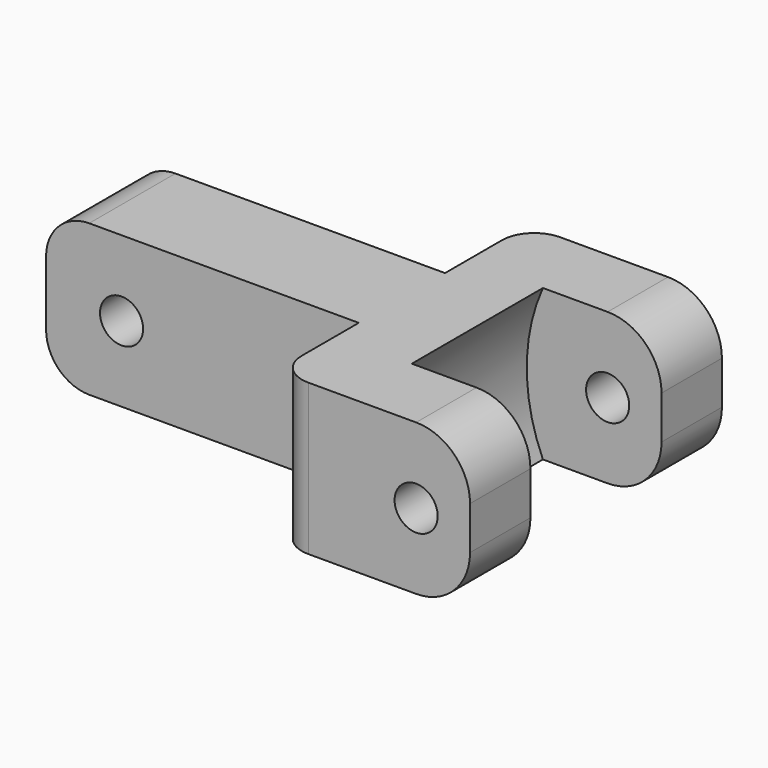
from build123d import *

# Parameters (mm, degrees)
F0_R          = 2
F2_DEPTH      = 5
F2_DEPTH_BACK = 5
F3_DEPTH      = 14
F4_DEPTH      = 25
F4_DEPTH_BACK = 25
F5_DEPTH      = 7.6
F5_DEPTH_BACK = 7.6


with BuildPart() as f2:
    # F0 (on Front) → F2 (new body, two sides)
    with BuildSketch(Plane.XZ) as f2_sk:
        with BuildLine():
            ThreePointArc((0, 4), (1.1715728753, 1.1715728753), (4, 0))
            Line((4, 0), (29, 0))
            Line((29, 0), (29, 14))
            Line((29, 14), (4, 14))
            ThreePointArc((4, 14), (1.1715728753, 12.8284271247), (0, 10))
            Line((0, 10), (0, 4))
        make_face()
        with Locations((7, 7)):
            Circle(F0_R, mode=Mode.SUBTRACT)
        with BuildLine():
            Line((29, 14), (29, 0))
            Line((29, 0), (36, 0))
            ThreePointArc((36, 0), (34.5, 7), (36, 14))
            Line((36, 14), (29, 14))
        make_face()
    extrude(amount=-F2_DEPTH)
    extrude(f2_sk.sketch, amount=F2_DEPTH_BACK)

    # F1 (on Top) → F3 (join)
    with BuildSketch(Plane.XY):
        with BuildLine():
            Line((36, 7.6), (47, 7.6))
            Line((47, 7.6), (47, 14.6))
            Line((47, 14.6), (32, 14.6))
            ThreePointArc((32, 14.6), (29.8786796564, 13.7213203436), (29, 11.6))
            Line((29, 11.6), (29, 5))
            Line((29, 5), (36, 5))
            Line((36, 5), (36, 7.6))
        make_face()
        with BuildLine():
            ThreePointArc((29, -11.6), (29.8786796564, -13.7213203436), (32, -14.6))
            Line((32, -14.6), (47, -14.6))
            Line((47, -14.6), (47, -7.6))
            Line((47, -7.6), (36, -7.6))
            Line((36, -7.6), (36, -5))
            Line((36, -5), (29, -5))
            Line((29, -5), (29, -11.6))
        make_face()
    extrude(amount=F3_DEPTH)

    # F0 (on Front) → F4 (cut, two sides)
    with BuildSketch(Plane.XZ) as f4_sk:
        with Locations((42, 7)):
            Circle(F0_R)
        with BuildLine():
            Line((47, 14), (42, 14))
            ThreePointArc((42, 14), (45.5355339059, 12.5355339059), (47, 9))
            Line((47, 9), (47, 14))
        make_face()
        with BuildLine():
            ThreePointArc((47, 5), (45.5355339059, 1.4644660941), (42, 0))
            Line((42, 0), (47, 0))
            Line((47, 0), (47, 5))
        make_face()
    extrude(amount=-F4_DEPTH, mode=Mode.SUBTRACT)
    extrude(f4_sk.sketch, amount=F4_DEPTH_BACK, mode=Mode.SUBTRACT)

    # F0 (on Front) → F5 (cut, two sides)
    with BuildSketch(Plane.XZ) as f5_sk:
        with BuildLine():
            ThreePointArc((36, 14), (34.5, 7), (36, 0))
            Line((36, 0), (36, 14))
        make_face()
    extrude(amount=-F5_DEPTH, mode=Mode.SUBTRACT)
    extrude(f5_sk.sketch, amount=F5_DEPTH_BACK, mode=Mode.SUBTRACT)


solid = f2.part
